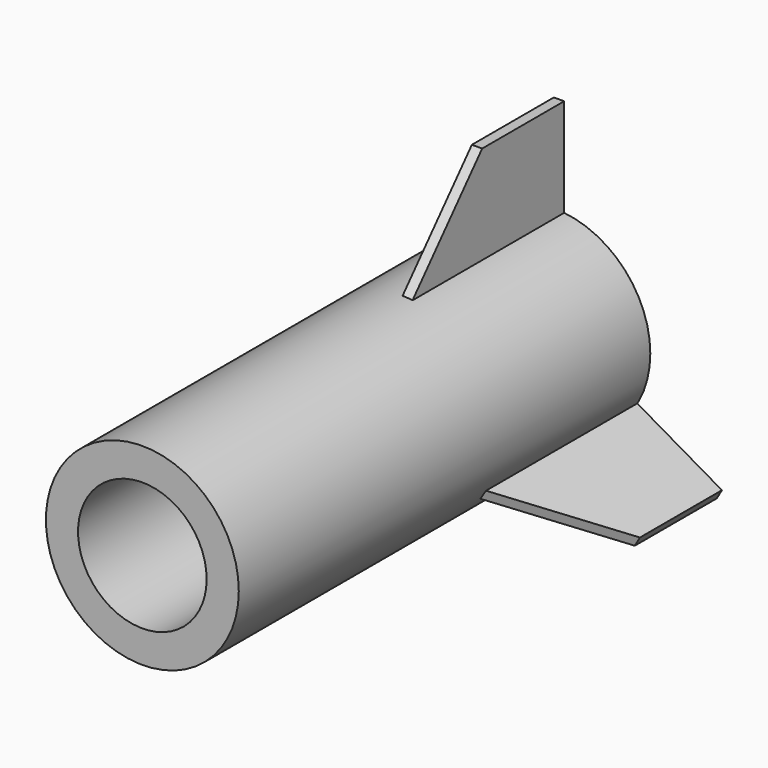
from build123d import *

# Parameters (mm, degrees)
F0_R     = 7.5
F0_R_2   = 5
F1_DEPTH = 40
F3_DEPTH = 0.8
F4_COUNT = 3


with BuildPart() as f1:
    # F0 (on Front) → F1 (new body)
    with BuildSketch(Plane.XZ):
        Circle(F0_R)
        Circle(F0_R_2, mode=Mode.SUBTRACT)
    extrude(amount=F1_DEPTH)


with BuildPart() as f3:
    # F2 (on Right) → F3 (new body)
    with BuildSketch(Plane.YZ):
        Polygon((-15.337471, 6.772005), (0, 6.772005), (0, 15.091441), (-7.96883, 15.091441), align=None)
    extrude(amount=F3_DEPTH)


with BuildPart() as f4_1:
    # F4: instance of F3
    add(f3.part.rotate(Axis((0, 0, 0), (0, 1, 0)), 1 * 360 / F4_COUNT))


with BuildPart() as f4_2:
    # F4: instance of F3
    add(f3.part.rotate(Axis((0, 0, 0), (0, 1, 0)), 2 * 360 / F4_COUNT))


solid = Compound([f1.part, f3.part, f4_1.part, f4_2.part])
